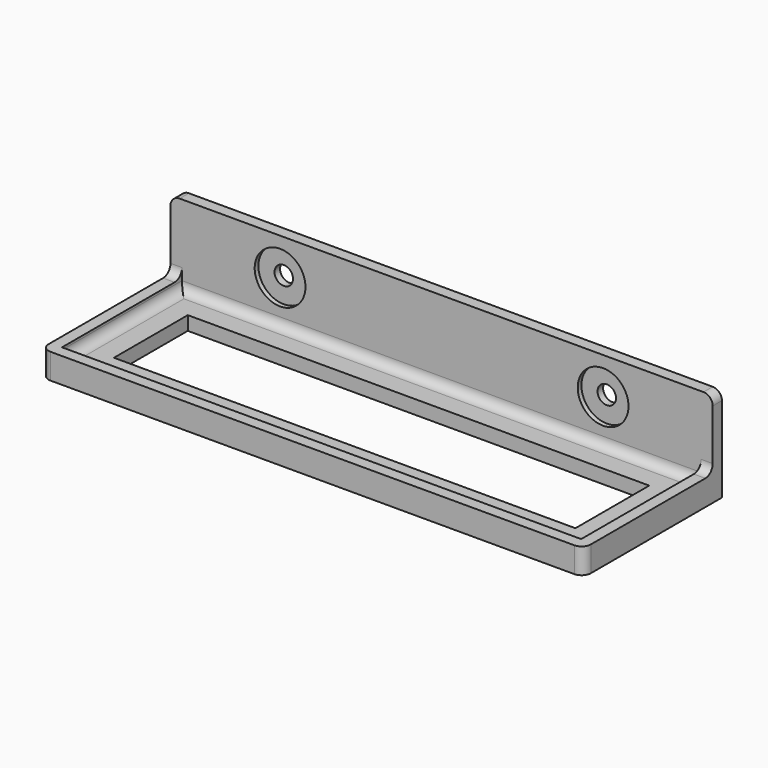
from build123d import *

# Parameters (mm, degrees)
F0_W     = 149.225
F0_H     = 47.625
F0_W_2   = 127
F0_H_2   = 25.4
F1_DEPTH = 3.81
F2_W     = 149.225
F2_H     = 47.625
F2_W_2   = 142.875
F2_H_2   = 41.275
F3_DEPTH = 3.175
F5_DEPTH = 19.05
F6_R     = 2.54
F7_DEPTH = 25.4
F6_R_2   = 6.985
F8_DEPTH = 1.27
F9_R     = 2.54


with BuildPart() as f1:
    # F0 (on Top) → F1 (new body)
    with BuildSketch(Plane.XY):
        Rectangle(F0_W, F0_H)
        Rectangle(F0_W_2, F0_H_2, mode=Mode.SUBTRACT)
    extrude(amount=F1_DEPTH)

    # F2 (on face) → F3 (join)
    with BuildSketch(Plane.XY.offset(3.81)):
        Rectangle(F2_W, F2_H)
        Rectangle(F2_W_2, F2_H_2, mode=Mode.SUBTRACT)
    extrude(amount=F3_DEPTH)

    # F4 (on face) → F5 (join)
    with BuildSketch(Plane.XY.offset(6.985)):
        Polygon((74.6125, 23.8125), (-74.6125, 23.8125), (-74.6125, 20.6375), (-71.4375, 20.6375), (71.4375, 20.6375), (74.6125, 20.6375), align=None)
    extrude(amount=F5_DEPTH)

    # F6 (on face) → F7 (cut)
    with BuildSketch(Plane.XZ.offset(-20.6375)):
        with Locations((-44.45, 15.875)):
            Circle(F6_R)
        with Locations((44.45, 15.875)):
            Circle(F6_R)
    extrude(amount=-F7_DEPTH, mode=Mode.SUBTRACT)

    # F6 (on face) → F8 (cut)
    with BuildSketch(Plane.XZ.offset(-20.6375)):
        with Locations((-44.45, 15.875)):
            Circle(F6_R_2)
        with Locations((-44.45, 15.875)):
            Circle(F6_R, mode=Mode.SUBTRACT)
        with Locations((44.45, 15.875)):
            Circle(F6_R_2)
        with Locations((44.45, 15.875)):
            Circle(F6_R, mode=Mode.SUBTRACT)
    extrude(amount=-F8_DEPTH, mode=Mode.SUBTRACT)

    # F9
    f9_edges = [f1.edges().sort_by_distance(p)[0] for p in [
        (-73.025, 20.6375, 6.985),
        (73.025, 20.6375, 6.985),
        (0, 20.6375, 3.81),
        (74.6125, 22.225, 26.035),
        (-74.6125, 22.225, 26.035),
        (-74.6125, -23.8125, 3.4925),
        (74.6125, -23.8125, 3.4925),
        (71.4375, 0, 3.81),
        (-71.4375, 0, 3.81),
        (0, -20.6375, 3.81),
    ]]
    fillet(f9_edges, radius=F9_R)


solid = f1.part
